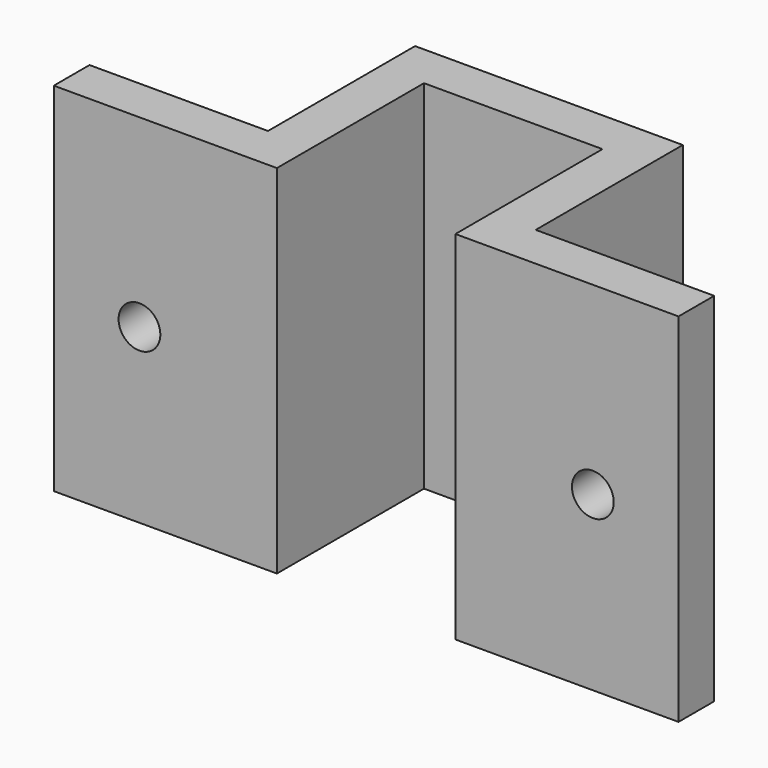
from build123d import *

# Parameters (mm, degrees)
F1_DEPTH = 25.4
F2_R     = 1.4859
F3_DEPTH = 16.257


with BuildPart() as f1:
    # F0 (on Top) → F1 (new body)
    with BuildSketch(Plane.XY):
        Polygon((-22.225, 3.175), (-22.225, 0), (-6.35, 0), (-6.35, 13.081), (6.35, 13.081), (6.35, 0), (22.225, 0), (22.225, 3.175), (9.525, 3.175), (9.525, 16.256), (-9.525, 16.256), (-9.525, 3.175), align=None)
    extrude(amount=F1_DEPTH)

    # F2 (on face) → F3 (cut, through all)
    with BuildSketch(Plane.XZ):
        with Locations((-16.129, 12.2682)):
            Circle(F2_R)
        with Locations((16.129, 12.2682)):
            Circle(F2_R)
    extrude(amount=-F3_DEPTH, mode=Mode.SUBTRACT)


solid = f1.part
